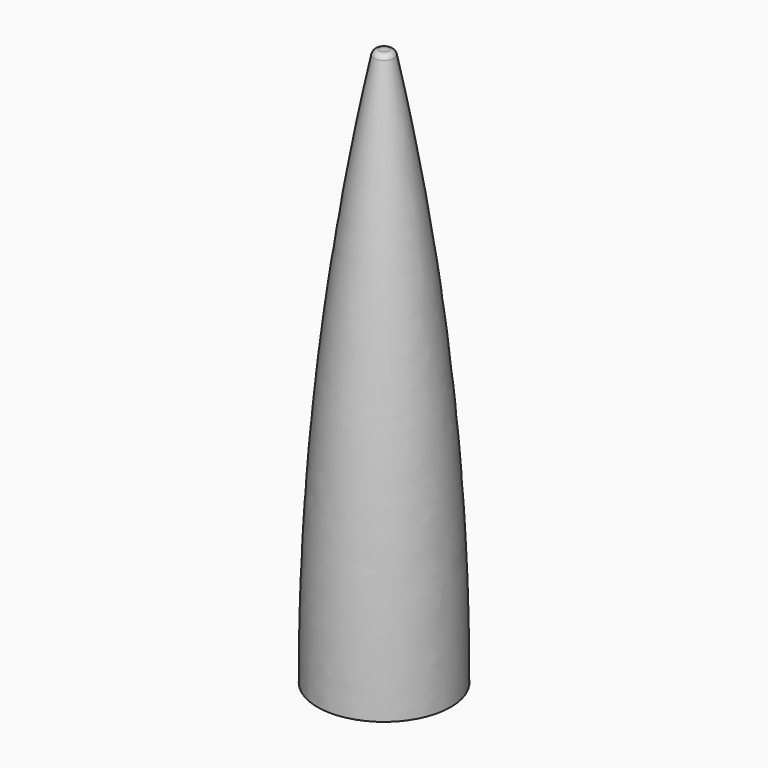
from build123d import *


with BuildPart() as f1:
    # F0 (on Front) → F1 (revolve)
    with BuildSketch(Plane.XZ):
        with BuildLine():
            Line((0, 103.632), (0, 102.5398))
            Line((0, 102.5398), (0.817225, 102.5398))
            ThreePointArc((0.817225, 102.5398), (8.684239, 51.537919), (11.3157, 0))
            Line((11.3157, 0), (12.3952, 0))
            ThreePointArc((12.3952, 0), (9.756258, 51.666098), (1.8669, 102.794444))
            ThreePointArc((1.8669, 102.794444), (1.501473, 103.396131), (0.8382, 103.632))
            Line((0.8382, 103.632), (0, 103.632))
        make_face()
    revolve(axis=Axis((0, 0, 51.816), (0, 0, 1)))


solid = f1.part
